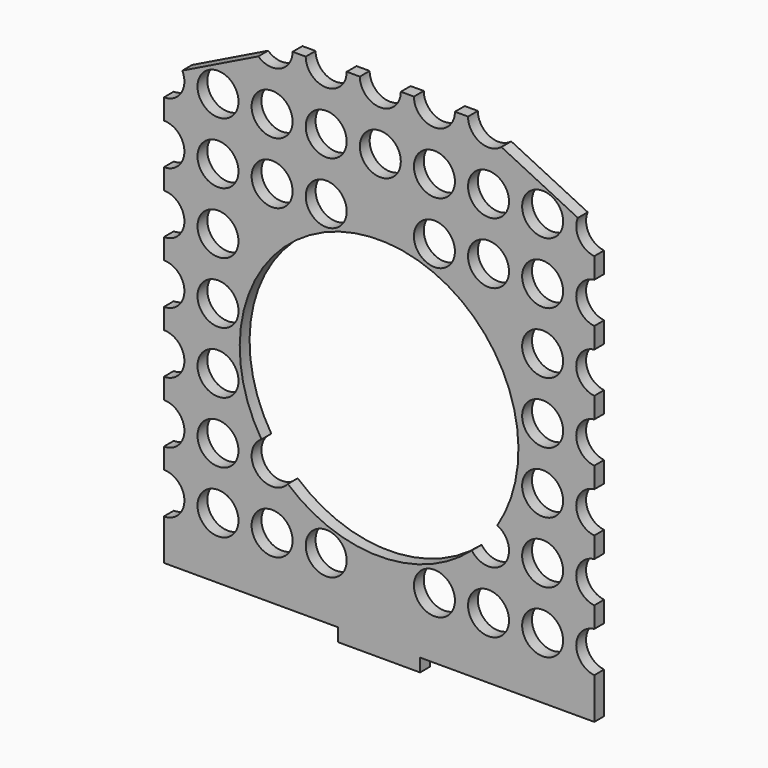
from build123d import *

# Parameters (mm, degrees)
F0_R     = 3.175
F1_DEPTH = 1.905


with BuildPart() as f1:
    # F0 (on Front) → F1 (new body)
    with BuildSketch(Plane.XZ):
        with BuildLine():
            Line((-62.950969, -32.115153), (-62.950969, -34.147153))
            Line((-62.950969, -34.147153), (-35.963469, -34.147153))
            Line((-35.963469, -34.147153), (-35.963469, -36.179153))
            Line((-35.963469, -36.179153), (-23.263469, -36.179153))
            Line((-23.263469, -36.179153), (-23.301246, -34.147504))
            Line((-23.301246, -34.147504), (3.724031, -34.147504))
            Line((3.724031, -34.147504), (3.724031, -27.77421))
            ThreePointArc((3.724031, -27.77421), (0.930031, -24.622153), (3.724031, -21.470096))
            Line((3.724031, -21.470096), (3.724031, -18.24921))
            ThreePointArc((3.724031, -18.24921), (0.930031, -15.097153), (3.724031, -11.945096))
            Line((3.724031, -11.945096), (3.724031, -8.72421))
            ThreePointArc((3.724031, -8.72421), (0.930031, -5.572153), (3.724031, -2.420096))
            Line((3.724031, -2.420096), (3.724031, 0.80079))
            ThreePointArc((3.724031, 0.80079), (0.930031, 3.952847), (3.724031, 7.104904))
            Line((3.724031, 7.104904), (3.724031, 10.32579))
            ThreePointArc((3.724031, 10.32579), (0.930031, 13.477847), (3.724031, 16.629904))
            Line((3.724031, 16.629904), (3.724031, 19.85079))
            ThreePointArc((3.724031, 19.85079), (0.930031, 23.002847), (3.724031, 26.154904))
            Line((3.724031, 26.154904), (3.724031, 29.37579))
            ThreePointArc((3.724031, 29.37579), (1.355759, 30.939727), (1.184208, 33.772603))
            Line((1.184208, 33.772603), (-10.666718, 39.58069))
            ThreePointArc((-10.666718, 39.58069), (-14.029229, 39.188757), (-15.833969, 42.052847))
            Line((-15.833969, 42.052847), (-17.865969, 42.052847))
            ThreePointArc((-17.865969, 42.052847), (-21.040969, 38.877847), (-24.215969, 42.052847))
            Line((-24.215969, 42.052847), (-26.247969, 42.052847))
            ThreePointArc((-26.247969, 42.052847), (-29.422969, 38.877847), (-32.597969, 42.052847))
            Line((-32.597969, 42.052847), (-34.629969, 42.052847))
            ThreePointArc((-34.629969, 42.052847), (-37.804969, 38.877847), (-40.979969, 42.052847))
            Line((-40.979969, 42.052847), (-43.011969, 42.052847))
            ThreePointArc((-43.011969, 42.052847), (-44.899665, 39.150525), (-48.318094, 39.699354))
            Line((-48.318094, 39.699354), (-60.099957, 33.925115))
            ThreePointArc((-60.099957, 33.925115), (-60.256813, 30.847922), (-62.950969, 29.352847))
            Line((-62.950969, 29.352847), (-62.950969, 26.177847))
            ThreePointArc((-62.950969, 26.177847), (-59.775969, 23.002847), (-62.950969, 19.827847))
            Line((-62.950969, 19.827847), (-62.950969, 16.652847))
            ThreePointArc((-62.950969, 16.652847), (-59.775969, 13.477847), (-62.950969, 10.302847))
            Line((-62.950969, 10.302847), (-62.950969, 7.127847))
            ThreePointArc((-62.950969, 7.127847), (-59.775969, 3.952847), (-62.950969, 0.777847))
            Line((-62.950969, 0.777847), (-62.950969, -2.397153))
            ThreePointArc((-62.950969, -2.397153), (-59.775969, -5.572153), (-62.950969, -8.747153))
            Line((-62.950969, -8.747153), (-62.950969, -11.922153))
            ThreePointArc((-62.950969, -11.922153), (-59.775969, -15.097153), (-62.950969, -18.272153))
            Line((-62.950969, -18.272153), (-62.950969, -21.447153))
            ThreePointArc((-62.950969, -21.447153), (-59.775969, -24.622153), (-62.950969, -27.797153))
            Line((-62.950969, -27.797153), (-62.950969, -32.115153))
        make_face()
        with Locations((-54.568969, -24.622153)):
            Circle(F0_R, mode=Mode.SUBTRACT)
        with Locations((-46.186969, -24.622153)):
            Circle(F0_R, mode=Mode.SUBTRACT)
        with Locations((-37.804969, -24.622153)):
            Circle(F0_R, mode=Mode.SUBTRACT)
        with Locations((-54.568969, -15.097153)):
            Circle(F0_R, mode=Mode.SUBTRACT)
        with Locations((-54.568969, -5.572153)):
            Circle(F0_R, mode=Mode.SUBTRACT)
        with BuildLine():
            ThreePointArc((-47.838028, -12.385211), (-29.704319, 20.780156), (-11.292136, -12.231425))
            ThreePointArc((-11.292136, -12.231425), (-10.231083, -17.143124), (-15.251558, -16.929939))
            ThreePointArc((-15.251558, -16.929939), (-29.462073, -22.399122), (-43.747891, -17.129769))
            ThreePointArc((-43.747891, -17.129769), (-48.591745, -17.170236), (-47.838028, -12.385211))
        make_face(mode=Mode.SUBTRACT)
        with Locations((-21.040969, -24.622153)):
            Circle(F0_R, mode=Mode.SUBTRACT)
        with Locations((-12.658969, -24.622153)):
            Circle(F0_R, mode=Mode.SUBTRACT)
        with Locations((-4.276969, -24.622153)):
            Circle(F0_R, mode=Mode.SUBTRACT)
        with Locations((-4.276969, -15.097153)):
            Circle(F0_R, mode=Mode.SUBTRACT)
        with Locations((-4.276969, -5.572153)):
            Circle(F0_R, mode=Mode.SUBTRACT)
        with Locations((-54.568969, 3.952847)):
            Circle(F0_R, mode=Mode.SUBTRACT)
        with Locations((-54.568969, 13.477847)):
            Circle(F0_R, mode=Mode.SUBTRACT)
        with Locations((-54.568969, 23.002847)):
            Circle(F0_R, mode=Mode.SUBTRACT)
        with Locations((-54.568969, 32.527847)):
            Circle(F0_R, mode=Mode.SUBTRACT)
        with Locations((-46.186969, 23.002847)):
            Circle(F0_R, mode=Mode.SUBTRACT)
        with Locations((-37.804969, 23.002847)):
            Circle(F0_R, mode=Mode.SUBTRACT)
        with Locations((-46.186969, 32.527847)):
            Circle(F0_R, mode=Mode.SUBTRACT)
        with Locations((-37.804969, 32.527847)):
            Circle(F0_R, mode=Mode.SUBTRACT)
        with Locations((-4.276969, 3.952847)):
            Circle(F0_R, mode=Mode.SUBTRACT)
        with Locations((-4.276969, 13.477847)):
            Circle(F0_R, mode=Mode.SUBTRACT)
        with Locations((-21.040969, 23.002847)):
            Circle(F0_R, mode=Mode.SUBTRACT)
        with Locations((-29.422969, 32.527847)):
            Circle(F0_R, mode=Mode.SUBTRACT)
        with Locations((-21.040969, 32.527847)):
            Circle(F0_R, mode=Mode.SUBTRACT)
        with Locations((-12.658969, 23.002847)):
            Circle(F0_R, mode=Mode.SUBTRACT)
        with Locations((-4.276969, 23.002847)):
            Circle(F0_R, mode=Mode.SUBTRACT)
        with Locations((-12.658969, 32.527847)):
            Circle(F0_R, mode=Mode.SUBTRACT)
        with Locations((-4.276969, 32.527847)):
            Circle(F0_R, mode=Mode.SUBTRACT)
    extrude(amount=F1_DEPTH)


solid = f1.part
